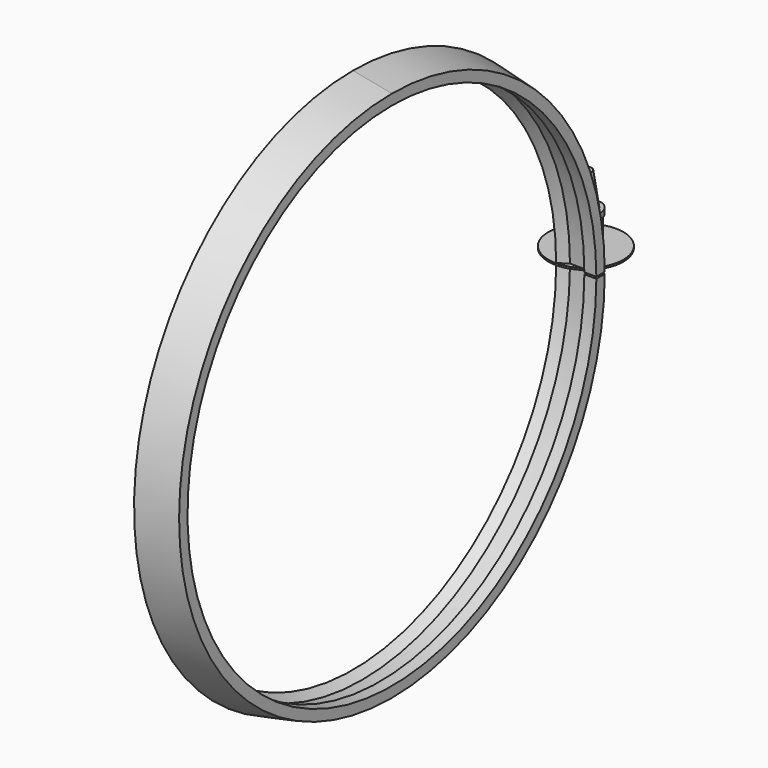
from build123d import *

# Parameters (mm, degrees)
F3_DEPTH      = 130
F4_R          = 125
F5_DEPTH      = 3
F5_DEPTH_BACK = 3
F6_R          = 35.5
F7_DEPTH      = 3
F8_R          = 35.5
F9_DEPTH      = 3
F10_R         = 45
F11_DEPTH     = 91
F12_R         = 48.75
F13_DEPTH     = 19
F14_R         = 35
F15_DEPTH     = 110
F15_TAPER     = 8.29
F17_DEPTH     = 12


with BuildPart() as f1:
    # F0 (on Front) → F1 (revolve)
    with BuildSketch(Plane.XZ):
        Polygon((-40, 852), (0, 852), (0, 887), (-130, 912.25), (-130, 847), (-100, 867), (-40, 867), align=None)
    revolve(axis=Axis((-281.5768346616, 0, 0), (-1, 0, 0)))

    # F2 (on Right) → F3 (cut)
    with BuildSketch(Plane.YZ):
        Polygon((919.148504734, -3), (919.148504734, 0), (919.148504734, 3), (567.0236367701, 3), (567.0236367701, -3), align=None)
    extrude(amount=-F3_DEPTH, mode=Mode.SUBTRACT)

    # F4 (on Top) → F5 (join, two sides)
    with BuildSketch(Plane.XY) as f5_sk:
        with Locations((-130, 971)):
            Circle(F4_R)
    extrude(amount=-F5_DEPTH)
    extrude(f5_sk.sketch, amount=F5_DEPTH_BACK)

    # F6 (on face) → F7 (join)
    with BuildSketch(Plane.XY.offset(3)):
        with Locations((-130, 971)):
            Circle(F6_R)
    extrude(amount=F7_DEPTH)

    # F8 (on face) → F9 (join)
    with BuildSketch(Plane(origin=(0, 0, -3), x_dir=(1, 0, 0), z_dir=(0, 0, -1))):
        with Locations((-130, -971)):
            Circle(F8_R)
    extrude(amount=F9_DEPTH)

    # F10 (on face) → F11 (join)
    with BuildSketch(Plane.XY.offset(6)):
        with Locations((-130, 971)):
            Circle(F10_R)
    extrude(amount=F11_DEPTH)

    # F12 (on face) → F13 (join)
    with BuildSketch(Plane.XY.offset(97)):
        with Locations((-130, 971)):
            Circle(F12_R)
    extrude(amount=F13_DEPTH)

    # F14 (on face) → F15 (join)
    with BuildSketch(Plane.XY.offset(116)):
        with Locations((-130, 971)):
            Circle(F14_R)
    extrude(amount=F15_DEPTH, taper=F15_TAPER)

    # F16 (on face) → F17 (join)
    with BuildSketch(Plane(origin=(0, 0, -6), x_dir=(1, 0, 0), z_dir=(0, 0, -1))):
        with BuildLine():
            Line((-120, -961), (-120, -941.1294459375))
            ThreePointArc((-120, -941.1294459375), (-130, -939.5), (-140, -941.1294459375))
            Line((-140, -941.1294459375), (-140, -961))
            Line((-140, -961), (-159.8705540625, -961))
            ThreePointArc((-159.8705540625, -961), (-161.5, -971), (-159.8705540625, -981))
            Line((-159.8705540625, -981), (-140, -981))
            Line((-140, -981), (-140, -1000.8705540625))
            ThreePointArc((-140, -1000.8705540625), (-130, -1002.5), (-120, -1000.8705540625))
            Line((-120, -1000.8705540625), (-120, -981))
            Line((-120, -981), (-100.1294459375, -981))
            ThreePointArc((-100.1294459375, -981), (-98.5, -971), (-100.1294459375, -961))
            Line((-100.1294459375, -961), (-120, -961))
        make_face()
    extrude(amount=F17_DEPTH)


solid = f1.part
